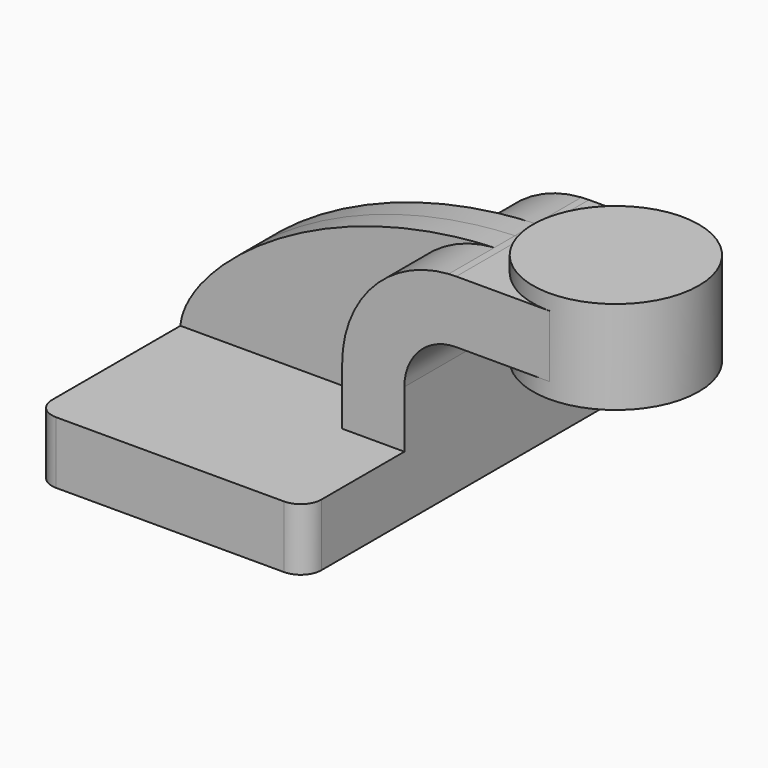
from build123d import *

# Parameters (mm, degrees)
F1_DEPTH = 63.5
F0_W     = 25.4
F0_H     = 19.05
F2_DEPTH = 25.4
F3_DEPTH = 7.9375
F5_R     = 6.35


with BuildPart() as f1:
    # F0 (on Front) → F1 (new body, symmetric)
    with BuildSketch(Plane.XZ):
        Polygon((-41.275, -9.525), (41.275, -9.525), (41.275, 9.525), (22.225, 9.525), (-41.275, 9.525), align=None)
    extrude(amount=F1_DEPTH, both=True)

    # F0 (on Front) → F2 (join, symmetric)
    with BuildSketch(Plane.XZ):
        with BuildLine():
            Line((22.225, 9.525), (41.275, 9.525))
            Line((41.275, 9.525), (41.275, 27.0002))
            ThreePointArc((41.275, 27.0002), (45.9246798487, 38.2255201513), (57.15, 42.8752))
            Line((57.15, 42.8752), (60.325, 42.8752))
            Line((60.325, 42.8752), (60.325, 61.9252))
            Line((60.325, 61.9252), (57.15, 61.9252))
            add(Edge.make_bspline(
                [(54.8473736997, 61.8492105616), (55.6117304975, 61.880287885), (56.3792898057, 61.9056569823), (57.15, 61.9252)],
                knots=[110.0008146808, 110.0008146808, 110.0008146808, 110.0008146808, 111.5045361635, 111.5045361635, 111.5045361635, 111.5045361635], degree=3))
            ThreePointArc((54.8473736997, 61.8492105616), (31.6531879587, 50.8679229901), (22.225, 27.0002))
            Line((22.225, 27.0002), (22.225, 9.525))
        make_face()
        with Locations((73.025, 52.4002)):
            Rectangle(F0_W, F0_H)
    extrude(amount=F2_DEPTH, both=True)

    # F0 (on Front) → F3 (join, symmetric)
    with BuildSketch(Plane.XZ):
        with BuildLine():
            add(Edge.make_bspline(
                [(-41.275, 9.525), (-39.8441711743, 26.7561814621), (-1.0671499913, 59.5758301952), (54.8473736997, 61.8492105616)],
                knots=[0, 0, 0, 0, 110.0008146808, 110.0008146808, 110.0008146808, 110.0008146808], degree=3))
            Line((-41.275, 9.525), (22.225, 9.525))
            Line((22.225, 9.525), (22.225, 27.0002))
            ThreePointArc((22.225, 27.0002), (31.6531879587, 50.8679229901), (54.8473736997, 61.8492105616))
        make_face()
    extrude(amount=F3_DEPTH, both=True)

    # F5
    f5_edges = [f1.edges().sort_by_distance(p)[0] for p in [
        (41.275, -63.5, 0),
        (-41.275, -63.5, 0),
        (41.275, 63.5, 0),
        (-41.275, 63.5, 0),
    ]]
    fillet(f5_edges, radius=F5_R)


with BuildPart() as f4:
    # F0 (on Front) → F4 (revolve)
    with BuildSketch(Plane.XZ):
        Polygon((85.725, 61.9252), (85.725, 42.8752), (85.725, 38.1), (111.125, 38.1), (111.125, 66.675), (85.725, 66.675), align=None)
    revolve(axis=Axis((85.725, 0, 52.3875), (0, 0, 1)))


solid = Compound([f1.part, f4.part])
